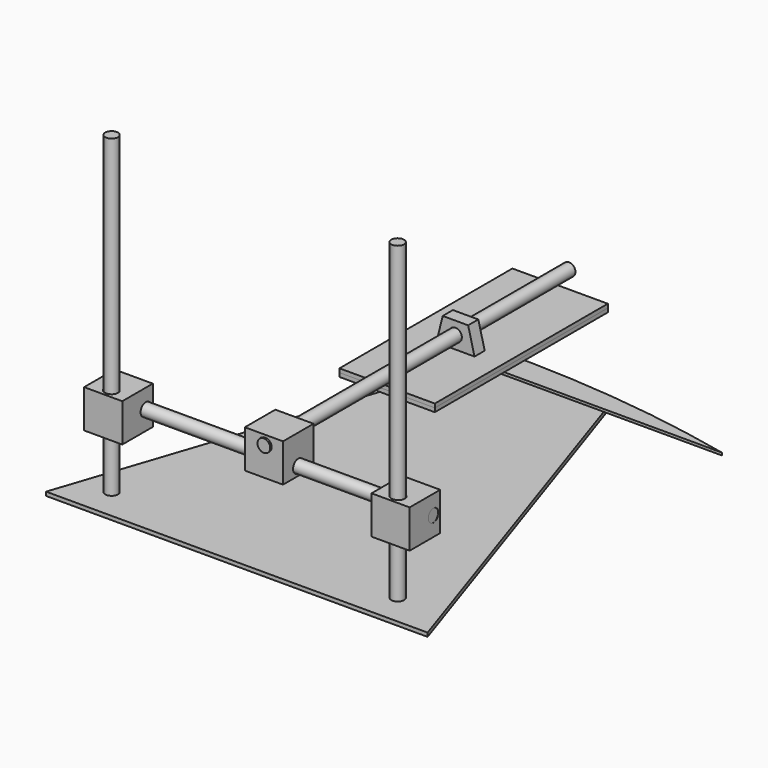
from build123d import *

# Parameters (mm, degrees)
SKETCH006_W             = 5
SKETCH006_H             = 300
PAD006_DEPTH            = 2
BODY009_ROLL_ANGLE      = 180
BODY009_PLACEMENT_ANGLE = 90
PAD009_DEPTH            = 3
SKETCH_W                = 75
SKETCH_H                = 170
PAD_DEPTH               = 3
SKETCH013_W             = 75
SKETCH013_H             = 170
PAD008_DEPTH            = 3
SKETCH004_R             = 5
PAD004_DEPTH            = 10
BODY004_PLACEMENT_ANGLE = 90
SKETCH015_W             = 30
SKETCH015_H             = 30
PAD010_DEPTH            = 30
SKETCH016_R             = 5
POCKET_DEPTH            = 30.001
SKETCH017_R             = 5
POCKET001_DEPTH         = 30.001
SKETCH018_W             = 250
SKETCH018_H             = 5
SKETCH019_W             = 250
SKETCH019_H             = 5
BODY015_PLACEMENT_ANGLE = 90
SKETCH020_W             = 250
SKETCH020_H             = 5
BODY016_PLACEMENT_ANGLE = 90
SKETCH023_W             = 30
SKETCH023_H             = 30
PAD011_DEPTH            = 30
SKETCH022_R             = 5
POCKET003_DEPTH         = 30.001
SKETCH021_R             = 5
POCKET002_DEPTH         = 30.001
BODY017_PLACEMENT_ANGLE = 90
SKETCH026_W             = 30
SKETCH026_H             = 30
PAD012_DEPTH            = 30
SKETCH025_R             = 5
POCKET005_DEPTH         = 30.001
SKETCH024_R             = 5
POCKET004_DEPTH         = 30.001
BODY018_PLACEMENT_ANGLE = 90


with BuildPart() as body006:
    # Sketch006 → Revolution (revolve)
    with BuildSketch(Plane.XY):
        with Locations((2.5, 150)):
            Rectangle(SKETCH006_W, SKETCH006_H)
    revolve(axis=Axis((0, 0, 0), (0, 1, 0)))


with BuildPart() as body006_1:
    # Body006 placement: moved
    add(body006.part.moved(Location((3.070281, -102.392204, 52.05558))))


with BuildPart() as knife:
    # Sketch010 → Pad006 (new body)
    with BuildSketch(Plane.XY):
        with BuildLine():
            Line((0, 0), (30, 0))
            Line((30, 0), (30, 50))
            Line((30, 50), (20, 50))
            ThreePointArc((20, 50), (16.133523, 150.613352), (0, 250))
            Line((0, 250), (0, 0))
        make_face()
    extrude(amount=PAD006_DEPTH)


with BuildPart() as knife_1:
    # Body009 roll: moved
    add(knife.part.rotate(Axis((0, 0, 0), (1, 0, 0)), BODY009_ROLL_ANGLE))


with BuildPart() as knife_2:
    # Body009 placement: moved
    add(knife_1.part.moved(Location((-100.788343, 165.18222, -14))).rotate(Axis((-100.788343, 165.18222, -14), (0, 0, 1)), BODY009_PLACEMENT_ANGLE))


with BuildPart() as obj1:
    # Sketch014 → Pad009 (new body)
    with BuildSketch(Plane.XY):
        Polygon((0, 0), (300, 0), (200, 300), (100, 300), align=None)
    extrude(amount=PAD009_DEPTH)


with BuildPart() as obj1_1:
    # Body012 placement: moved
    add(obj1.part.moved(Location((-148.780848, -126.659345, -22.296291))))


with BuildPart() as body:
    # Sketch → Pad (new body)
    with BuildSketch(Plane.XY):
        with Locations((37.5, 85)):
            Rectangle(SKETCH_W, SKETCH_H)
    extrude(amount=PAD_DEPTH)


with BuildPart() as body_1:
    # Body placement: moved
    add(body.part.moved(Location((-37, 22, 36))))


with BuildPart() as body011:
    # Sketch013 → Pad008 (new body)
    with BuildSketch(Plane.XY):
        with Locations((37.5, 85)):
            Rectangle(SKETCH013_W, SKETCH013_H)
    extrude(amount=PAD008_DEPTH)


with BuildPart() as body011_1:
    # Body011 placement: moved
    add(body011.part.moved(Location((-37, 22, 39))))


with BuildPart() as body004:
    # Sketch004 → Pad004 (new body)
    with BuildSketch(Plane.XY):
        Polygon((0, 0), (30, 0), (25, 20), (5, 20), align=None)
        with Locations((14.998663, 10.077222)):
            Circle(SKETCH004_R, mode=Mode.SUBTRACT)
    extrude(amount=PAD004_DEPTH)


with BuildPart() as body004_1:
    # Body004 placement: moved
    add(body004.part.moved(Location((-12, 96, 42))).rotate(Axis((-12, 96, 42), (1, 0, 0)), BODY004_PLACEMENT_ANGLE))


with BuildPart() as hinge:
    # Sketch015 → Pad010 (new body)
    with BuildSketch(Plane.XY):
        with Locations((15, 15)):
            Rectangle(SKETCH015_W, SKETCH015_H)
    extrude(amount=PAD010_DEPTH)

    # Sketch016 (on Face1 of Pad010) → Pocket (cut, through all)
    with BuildSketch(Plane.XZ):
        with Locations((15.430476, 22.838762)):
            Circle(SKETCH016_R)
    extrude(amount=-POCKET_DEPTH, mode=Mode.SUBTRACT)

    # Sketch017 (on Face2 of Pocket) → Pocket001 (cut, through all)
    with BuildSketch(Plane(origin=(0, 0, 0), x_dir=(0, -1, 0), z_dir=(-1, 0, 0))):
        with Locations((-14.901073, 6.68435)):
            Circle(SKETCH017_R)
    extrude(amount=-POCKET001_DEPTH, mode=Mode.SUBTRACT)


with BuildPart() as hinge_1:
    # Body013 placement: moved
    add(hinge.part.moved(Location((-13, -101, 29))))


with BuildPart() as hinge_sliding_rod:
    # Sketch018 → Revolution001 (revolve)
    with BuildSketch(Plane.XY):
        with Locations((125, 2.5)):
            Rectangle(SKETCH018_W, SKETCH018_H)
    revolve(axis=Axis((0, 0, 0), (1, 0, 0)))


with BuildPart() as hinge_sliding_rod_1:
    # Body014 placement: moved
    add(hinge_sliding_rod.part.moved(Location((-127, -86, 36))))


with BuildPart() as hinge_sliding_rod001:
    # Sketch019 → Revolution002 (revolve)
    with BuildSketch(Plane.XY):
        with Locations((125, 2.5)):
            Rectangle(SKETCH019_W, SKETCH019_H)
    revolve(axis=Axis((0, 0, 0), (1, 0, 0)))


with BuildPart() as hinge_sliding_rod001_1:
    # Body015 placement: moved
    add(hinge_sliding_rod001.part.moved(Location((-117, -102, 228))).rotate(Axis((-117, -102, 228), (0, 1, 0)), BODY015_PLACEMENT_ANGLE))


with BuildPart() as hinge_sliding_rod002:
    # Sketch020 → Revolution003 (revolve)
    with BuildSketch(Plane.XY):
        with Locations((125, 2.5)):
            Rectangle(SKETCH020_W, SKETCH020_H)
    revolve(axis=Axis((0, 0, 0), (1, 0, 0)))


with BuildPart() as hinge_sliding_rod002_1:
    # Body016 placement: moved
    add(hinge_sliding_rod002.part.moved(Location((108, -102, 227))).rotate(Axis((108, -102, 227), (0, 1, 0)), BODY016_PLACEMENT_ANGLE))


with BuildPart() as hinge001:
    # Sketch023 → Pad011 (new body)
    with BuildSketch(Plane.XY):
        with Locations((15, 15)):
            Rectangle(SKETCH023_W, SKETCH023_H)
    extrude(amount=PAD011_DEPTH)

    # Sketch022 (on Face1 of Pad011) → Pocket003 (cut, through all)
    with BuildSketch(Plane.XZ):
        with Locations((15.430476, 22.838762)):
            Circle(SKETCH022_R)
    extrude(amount=-POCKET003_DEPTH, mode=Mode.SUBTRACT)

    # Sketch021 (on Face2 of Pocket003) → Pocket002 (cut, through all)
    with BuildSketch(Plane(origin=(0, 0, 0), x_dir=(0, -1, 0), z_dir=(-1, 0, 0))):
        with Locations((-14.901073, 6.68435)):
            Circle(SKETCH021_R)
    extrude(amount=-POCKET002_DEPTH, mode=Mode.SUBTRACT)


with BuildPart() as hinge001_1:
    # Body017 placement: moved
    add(hinge001.part.moved(Location((93, -79, 21))).rotate(Axis((93, -79, 21), (1, 0, 0)), BODY017_PLACEMENT_ANGLE))


with BuildPart() as hinge002:
    # Sketch026 → Pad012 (new body)
    with BuildSketch(Plane.XY):
        with Locations((15, 15)):
            Rectangle(SKETCH026_W, SKETCH026_H)
    extrude(amount=PAD012_DEPTH)

    # Sketch025 (on Face1 of Pad012) → Pocket005 (cut, through all)
    with BuildSketch(Plane.XZ):
        with Locations((15.430476, 22.838762)):
            Circle(SKETCH025_R)
    extrude(amount=-POCKET005_DEPTH, mode=Mode.SUBTRACT)

    # Sketch024 (on Face2 of Pocket005) → Pocket004 (cut, through all)
    with BuildSketch(Plane(origin=(0, 0, 0), x_dir=(0, -1, 0), z_dir=(-1, 0, 0))):
        with Locations((-14.901073, 6.68435)):
            Circle(SKETCH024_R)
    extrude(amount=-POCKET004_DEPTH, mode=Mode.SUBTRACT)


with BuildPart() as hinge002_1:
    # Body018 placement: moved
    add(hinge002.part.moved(Location((-133, -79, 21))).rotate(Axis((-133, -79, 21), (1, 0, 0)), BODY018_PLACEMENT_ANGLE))


solid = Compound([body006_1.part, knife_2.part, obj1_1.part, body_1.part, body011_1.part, body004_1.part, hinge_1.part, hinge_sliding_rod_1.part, hinge_sliding_rod001_1.part, hinge_sliding_rod002_1.part, hinge001_1.part, hinge002_1.part])
